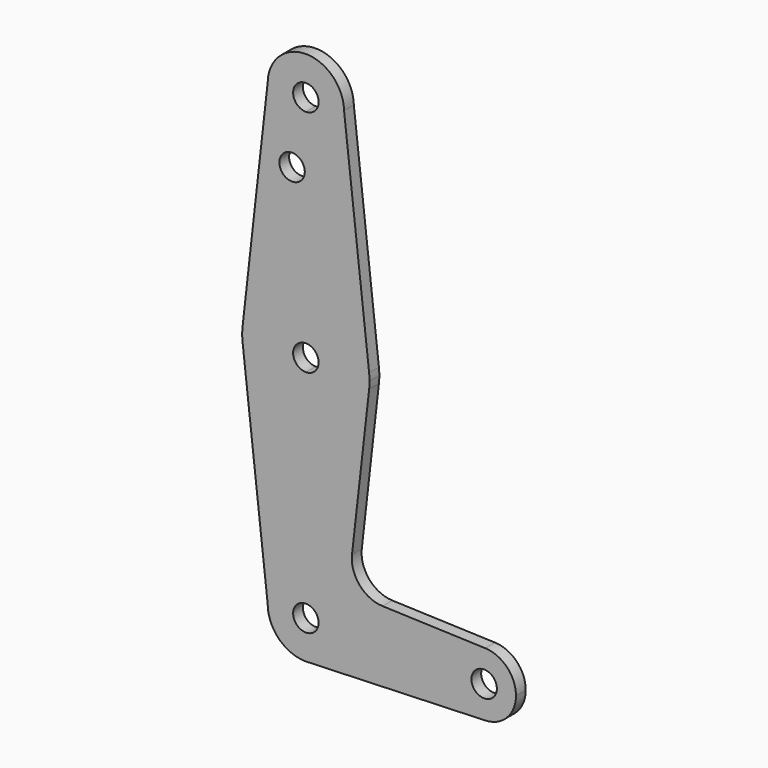
from build123d import *

# Parameters (mm, degrees)
F0_R     = 3.175
F1_DEPTH = 3.048
F2_DEPTH = 3.048


with BuildPart() as f1:
    # F0 (on Front) → F1 (new body)
    with BuildSketch(Plane.XZ):
        with BuildLine():
            ThreePointArc((0, 9.525), (-6.7351920908, 6.7351920908), (-9.525, 0))
            ThreePointArc((-9.525, 0), (-6.7351920908, -6.7351920908), (0, -9.525))
            Line((0, -9.525), (0.6773435479, -9.500885786))
            ThreePointArc((0.6773435479, -9.500885786), (6.9705567315, -6.4912990883), (9.525, 0))
            Line((9.525, 0), (3.175, 0))
            ThreePointArc((3.175, 0), (-2.2450640303, -2.2450640303), (0, 3.175))
            Line((0, 3.175), (0, 9.525))
        make_face()
        with BuildLine():
            Line((-15.7748262685, 55.3694154892), (-9.525, 0))
            ThreePointArc((-9.525, 0), (-6.7351920908, 6.7351920908), (0, 9.525))
            Line((0, 9.525), (0, 41.275))
            ThreePointArc((0, 41.275), (-10.5770706221, 45.3118750617), (-15.7748262685, 55.3694154892))
        make_face()
        with BuildLine():
            Line((11.5029641485, 17.6849723024), (15.7748262685, 55.3694154892))
            ThreePointArc((15.7748262685, 55.3694154892), (10.5770706221, 45.3118750617), (0, 41.275))
            Line((0, 41.275), (0, 9.525))
            ThreePointArc((0, 9.525), (6.7351920908, 6.7351920908), (9.525, 0))
            Line((9.525, 0), (36.5125, 0))
            ThreePointArc((36.5125, 0), (38.9380895153, 5.7116327839), (44.7324052746, 7.9324746146))
            Line((44.7324052746, 7.9324746146), (19.1197132398, 8.8443160862))
            ThreePointArc((19.1197132398, 8.8443160862), (13.3794916525, 11.6002435165), (11.5029641485, 17.6849723024))
        make_face()
        with BuildLine():
            Line((0.6773435479, -9.500885786), (0, -9.525))
            ThreePointArc((0, -9.525), (0.3388863295, -9.5189695375), (0.6773435479, -9.500885786))
        make_face()
        with BuildLine():
            ThreePointArc((-15.7754532472, 58.9250210833), (-15.8749997532, 57.1472006774), (-15.7748262685, 55.3694154892))
            ThreePointArc((-15.7748262685, 55.3694154892), (-10.5770706221, 45.3118750617), (0, 41.275))
            Line((0, 41.275), (0, 53.975))
            ThreePointArc((0, 53.975), (-3.175, 57.15), (0, 60.325))
            Line((0, 60.325), (0, 73.025))
            ThreePointArc((0, 73.025), (-10.5791579368, 68.9862596435), (-15.7754532472, 58.9250210833))
        make_face()
        with BuildLine():
            ThreePointArc((9.525, 0), (6.9705567315, -6.4912990883), (0.6773435479, -9.500885786))
            Line((0.6773435479, -9.500885786), (44.7324052746, -7.9324746146))
            ThreePointArc((44.7324052746, -7.9324746146), (38.9380895153, -5.7116327839), (36.5125, 0))
            Line((36.5125, 0), (9.525, 0))
        make_face()
        with BuildLine():
            Line((0, 53.975), (0, 41.275))
            ThreePointArc((0, 41.275), (10.5770706221, 45.3118750617), (15.7748262685, 55.3694154892))
            ThreePointArc((15.7748262685, 55.3694154892), (15.8499367824, 56.2582999416), (15.875, 57.15))
            ThreePointArc((15.875, 57.15), (15.8500781281, 58.039184082), (15.7753907614, 58.9255763364))
            ThreePointArc((15.7753907614, 58.9255763364), (10.5789496326, 68.9864458209), (0, 73.025))
            Line((0, 73.025), (0, 60.325))
            ThreePointArc((0, 60.325), (2.2450640303, 59.3950640303), (3.175, 57.15))
            ThreePointArc((3.175, 57.15), (2.2450640303, 54.9049359697), (0, 53.975))
        make_face()
        with BuildLine():
            Line((-9.5230410129, 114.4931705629), (-15.7754532472, 58.9250210833))
            ThreePointArc((-15.7754532472, 58.9250210833), (-10.5791579368, 68.9862596435), (0, 73.025))
            Line((0, 73.025), (0, 104.775))
            ThreePointArc((0, 104.775), (-6.8031453979, 107.6334538407), (-9.5230410129, 114.4931705629))
        make_face()
        with Locations((-3.444748465, 97.8701710701)):
            Circle(F0_R, mode=Mode.SUBTRACT)
        with BuildLine():
            ThreePointArc((36.5125, 0), (38.9380895153, -5.7116327839), (44.7324052746, -7.9324746146))
            ThreePointArc((44.7324052746, -7.9324746146), (50.1616327839, -5.5119104847), (52.3875, 0))
            ThreePointArc((52.3875, 0), (50.1616327839, 5.5119104847), (44.7324052746, 7.9324746146))
            ThreePointArc((44.7324052746, 7.9324746146), (38.9380895153, 5.7116327839), (36.5125, 0))
        make_face()
        with BuildLine():
            ThreePointArc((47.625, 0), (44.45, -3.175), (41.275, 0))
            ThreePointArc((41.275, 0), (44.45, 3.175), (47.625, 0))
        make_face(mode=Mode.SUBTRACT)
        with BuildLine():
            Line((0, 104.775), (0, 73.025))
            ThreePointArc((0, 73.025), (10.5789496326, 68.9864458209), (15.7753907614, 58.9255763364))
            Line((15.7753907614, 58.9255763364), (9.5234476116, 114.4719610132))
            ThreePointArc((9.5234476116, 114.4719610132), (9.524611895, 114.3859840101), (9.525, 114.3))
            ThreePointArc((9.525, 114.3), (6.7351920908, 107.5648079092), (0, 104.775))
        make_face()
        with BuildLine():
            ThreePointArc((9.5234476116, 114.4719610132), (0.0106067234, 123.8249940944), (-9.5230410129, 114.4931705629))
            ThreePointArc((-9.5230410129, 114.4931705629), (-6.8031453979, 107.6334538407), (0, 104.775))
            ThreePointArc((0, 104.775), (6.7351920908, 107.5648079092), (9.525, 114.3))
            ThreePointArc((9.525, 114.3), (9.524611895, 114.3859840101), (9.5234476116, 114.4719610132))
        make_face()
        with BuildLine():
            ThreePointArc((3.175, 114.3), (2.2450640303, 112.0549359697), (0, 111.125))
            ThreePointArc((0, 111.125), (-2.2450640303, 116.5450640303), (3.175, 114.3))
        make_face(mode=Mode.SUBTRACT)
    extrude(amount=F1_DEPTH)

    # F0 (on Front) → F2 (join)
    with BuildSketch(Plane.XZ):
        with BuildLine():
            ThreePointArc((9.525, 0), (6.7351920908, 6.7351920908), (0, 9.525))
            Line((0, 9.525), (0, 3.175))
            ThreePointArc((0, 3.175), (2.2450640303, 2.2450640303), (3.175, 0))
            Line((3.175, 0), (9.525, 0))
        make_face()
    extrude(amount=F2_DEPTH)


solid = f1.part
